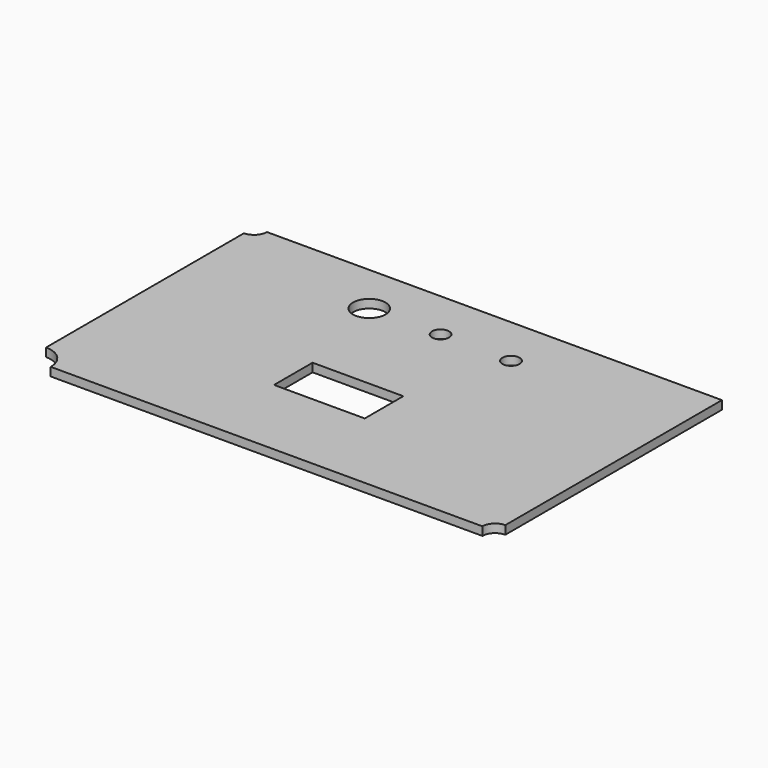
from build123d import *

# Parameters (mm, degrees)
F0_W     = 165
F0_H     = 100
F1_DEPTH = 3
F2_R     = 3.020571
F2_R_2   = 3
F2_R_3   = 5.729587
F2_W     = 32
F2_H     = 17
F2_R_4   = 8.232931
F2_R_5   = 4.5
F3_DEPTH = 25


with BuildPart() as f1:
    # F0 (on Top) → F1 (new body)
    with BuildSketch(Plane.XY):
        Rectangle(F0_W, F0_H)
    extrude(amount=F1_DEPTH)

    # F2 (on face) → F3 (cut)
    with BuildSketch(Plane.XY.offset(3)):
        with Locations((22.5, 32)):
            Circle(F2_R)
        with Locations((-2.5, 32.174457)):
            Circle(F2_R_2)
        with Locations((-27.5, 32)):
            Circle(F2_R_3)
        with Locations((-3.5, -11.5)):
            Rectangle(F2_W, F2_H)
        with Locations((-82.5, -50)):
            Circle(F2_R_4)
        with Locations((-82.5, 50)):
            Circle(F2_R_5)
        with Locations((82.5, -50)):
            Circle(F2_R_5)
    extrude(amount=-F3_DEPTH, mode=Mode.SUBTRACT)


solid = f1.part
